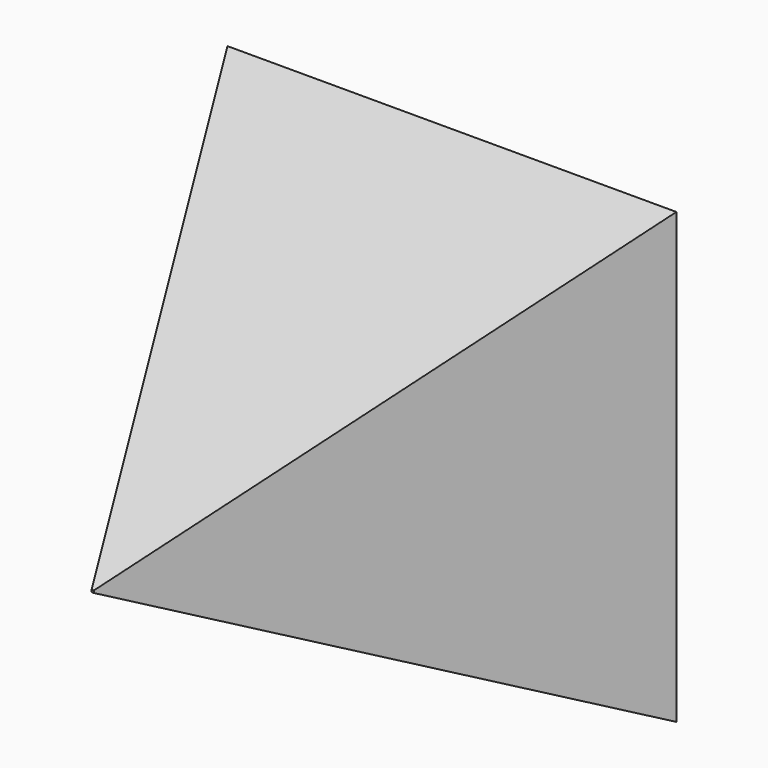
from build123d import *

# Parameters (mm, degrees)
F2_W = 0.254
F2_H = 0.254
F0_W = 50.8
F0_H = 50.8


with BuildPart() as f3:
    # F2 (on offset) → F3 section 0
    with BuildSketch(Plane.XZ.offset(50.8)):
        Rectangle(F2_W, F2_H)
    # F0 (on Front) → F3 section 1
    with BuildSketch(Plane.XZ):
        Rectangle(F0_W, F0_H)
    loft()


solid = f3.part
